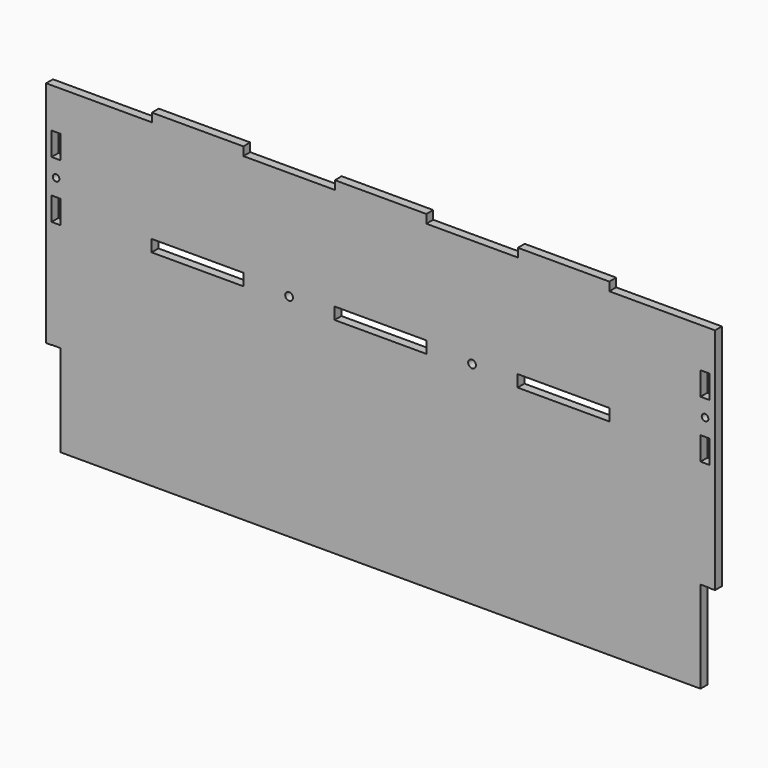
from build123d import *

# Parameters (mm, degrees)
F0_R     = 1.8415
F0_W     = 51.054
F0_H     = 6.604
F0_W_2   = 50.8
F0_H_2   = 4.7625
F1_DEPTH = 4.7625
F2_D     = 4.318
F2_DEPTH = 11.9126
F2_TIP   = 1.2972580765


with BuildPart() as f1:
    # F0 (on Front) → F1 (new body)
    with BuildSketch(Plane.XZ):
        Polygon((-127, 88.9), (-182.5625, 88.9), (-182.5625, 66.802), (-177.673, 66.802), (-177.673, 53.848), (-182.5625, 53.848), (-182.5625, 35.052), (-177.673, 35.052), (-177.673, 22.098), (-182.5625, 22.098), (-182.5625, -37.973), (-177.673, -37.973), (-177.673, -88.9), (177.673, -88.9), (177.673, -37.973), (182.5625, -37.973), (182.5625, 22.098), (177.673, 22.098), (177.673, 35.052), (182.5625, 35.052), (182.5625, 53.848), (177.673, 53.848), (177.673, 66.802), (182.5625, 66.802), (182.5625, 88.9), (127, 88.9), (76.2, 88.9), (25.4, 88.9), (-25.4, 88.9), (-76.2, 88.9), align=None)
        with Locations((-180.18125, 44.45)):
            Circle(F0_R, mode=Mode.SUBTRACT)
        with Locations((-101.6, 28.575)):
            Rectangle(F0_W, F0_H, mode=Mode.SUBTRACT)
        with Locations((0, 28.575)):
            Rectangle(F0_W, F0_H, mode=Mode.SUBTRACT)
        with Locations((101.6, 28.575)):
            Rectangle(F0_W, F0_H, mode=Mode.SUBTRACT)
        with Locations((180.18125, 44.45)):
            Circle(F0_R, mode=Mode.SUBTRACT)
        with Locations((-101.6, 91.28125)):
            Rectangle(F0_W_2, F0_H_2)
        with Locations((0, 91.28125)):
            Rectangle(F0_W_2, F0_H_2)
        with Locations((101.6, 91.28125)):
            Rectangle(F0_W_2, F0_H_2)
        Polygon((-182.5625, 66.802), (-182.5625, 88.9), (-185.7375, 88.9), (-185.7375, -38.1), (-182.6895, -38.1), (-182.6895, -37.973), (-182.5625, -37.973), (-182.5625, 22.098), (-182.6895, 22.098), (-182.6895, 35.052), (-182.5625, 35.052), (-182.5625, 53.848), (-182.6895, 53.848), (-182.6895, 66.802), align=None)
        Polygon((185.7375, 88.9), (182.5625, 88.9), (182.5625, 66.802), (182.6895, 66.802), (182.6895, 53.848), (182.5625, 53.848), (182.5625, 35.052), (182.6895, 35.052), (182.6895, 22.098), (182.5625, 22.098), (182.5625, -37.973), (182.6895, -37.973), (182.6895, -38.1), (185.7375, -38.1), align=None)
    extrude(amount=F1_DEPTH)

    # F2
    with Locations(Plane(origin=(0, 0, 0), x_dir=(1, 0, 0), z_dir=(0, 1, 0))):
        with Locations((-50.8, -28.575), (50.8, -28.575)):
            Hole(F2_D / 2, depth=F2_DEPTH)
            with Locations((0, 0, -(F2_DEPTH + F2_TIP / 2))):  # 118° drill point
                Cone(0, F2_D / 2, F2_TIP, mode=Mode.SUBTRACT)


solid = f1.part
